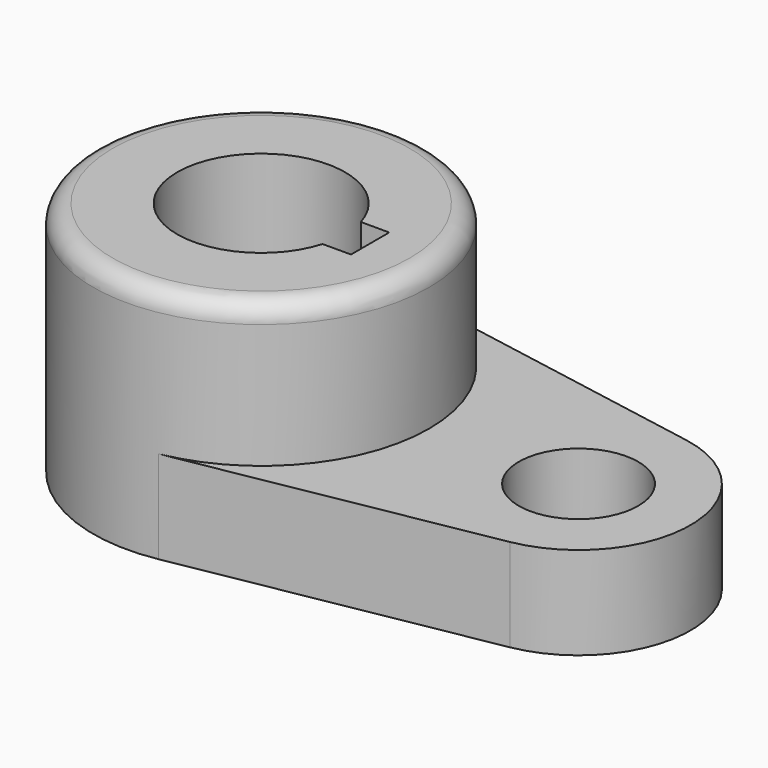
from build123d import *

# Parameters (mm, degrees)
F0_R     = 28.575
F1_DEPTH = 40.2336
F3_DEPTH = 15.7734
F5_DEPTH = 40.2346
F6_R     = 10.16
F7_DEPTH = 15.7744
F8_R     = 3.302


with BuildPart() as f1:
    # F0 (on Top) → F1 (new body)
    with BuildSketch(Plane.XY):
        Circle(F0_R)
    extrude(amount=F1_DEPTH)

    # F2 (on Top) → F3 (join)
    with BuildSketch(Plane.XY):
        with BuildLine():
            Line((5.042647, -28.126541), (57.336765, -18.751028))
            ThreePointArc((57.336765, -18.751028), (73.025, 0), (57.336765, 18.751028))
            Line((57.336765, 18.751028), (5.042647, 28.126541))
            ThreePointArc((5.042647, 28.126541), (-28.575, 0), (5.042647, -28.126541))
        make_face()
    extrude(amount=F3_DEPTH)

    # F4 (on face) → F5 (cut, through all)
    with BuildSketch(Plane.XY.offset(40.2336)):
        with BuildLine():
            Line((18.5293, 4.064), (13.697319, 4.064))
            ThreePointArc((13.697319, 4.064), (-14.2875, 0), (13.697319, -4.064))
            Line((13.697319, -4.064), (18.5293, -4.064))
            Line((18.5293, -4.064), (18.5293, 0))
            Line((18.5293, 0), (18.5293, 4.064))
        make_face()
    extrude(amount=-F5_DEPTH, mode=Mode.SUBTRACT)

    # F6 (on face) → F7 (cut, through all)
    with BuildSketch(Plane.XY.offset(15.7734)):
        with Locations((53.975, 0)):
            Circle(F6_R)
    extrude(amount=-F7_DEPTH, mode=Mode.SUBTRACT)

    # F8
    f8_edges = [f1.edges().sort_by_distance(p)[0] for p in [
        (-28.575, 0, 40.2336),
    ]]
    fillet(f8_edges, radius=F8_R)


solid = f1.part
